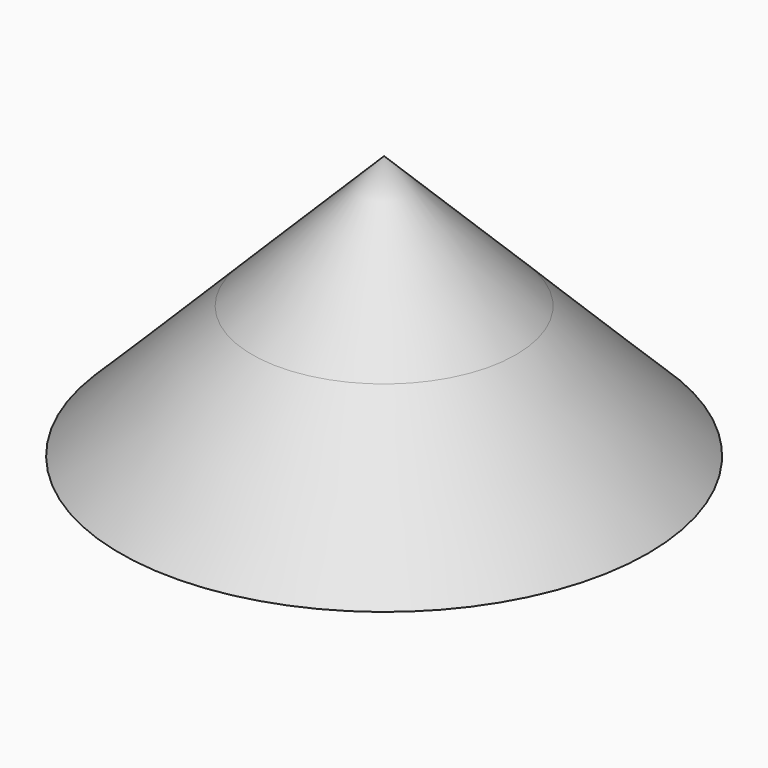
from build123d import *


with BuildPart() as f1:
    # F0 (on Front) → F1 (revolve)
    with BuildSketch(Plane.XZ):
        with BuildLine():
            Line((0, 0), (0.7, 0))
            ThreePointArc((0.7, 0), (0.646716, 0.267878), (0.494975, 0.494975))
            ThreePointArc((0.494975, 0.494975), (0.267878, 0.646716), (0, 0.7))
            Line((0, 0.7), (0, 0))
        make_face()
    revolve(axis=Axis((0, 0, 0.35), (0, 0, 1)))


with BuildPart() as f2:
    # F0 (on Front) → F2 (revolve)
    with BuildSketch(Plane.XZ):
        with BuildLine():
            ThreePointArc((0, 0.7), (0.267878, 0.646716), (0.494975, 0.494975))
            Line((0.494975, 0.494975), (0, 0.989949))
            Line((0, 0.989949), (0, 0.7))
        make_face()
        with BuildLine():
            ThreePointArc((0.494975, 0.494975), (0.646716, 0.267878), (0.7, 0))
            Line((0.7, 0), (0.989949, 0))
            Line((0.989949, 0), (0.494975, 0.494975))
        make_face()
        with BuildLine():
            Line((0, 0), (0.7, 0))
            ThreePointArc((0.7, 0), (0.646716, 0.267878), (0.494975, 0.494975))
            ThreePointArc((0.494975, 0.494975), (0.267878, 0.646716), (0, 0.7))
            Line((0, 0.7), (0, 0))
        make_face()
    revolve(axis=Axis((0, 0, 0.494975), (0, 0, -1)))


solid = Compound([f1.part, f2.part])
